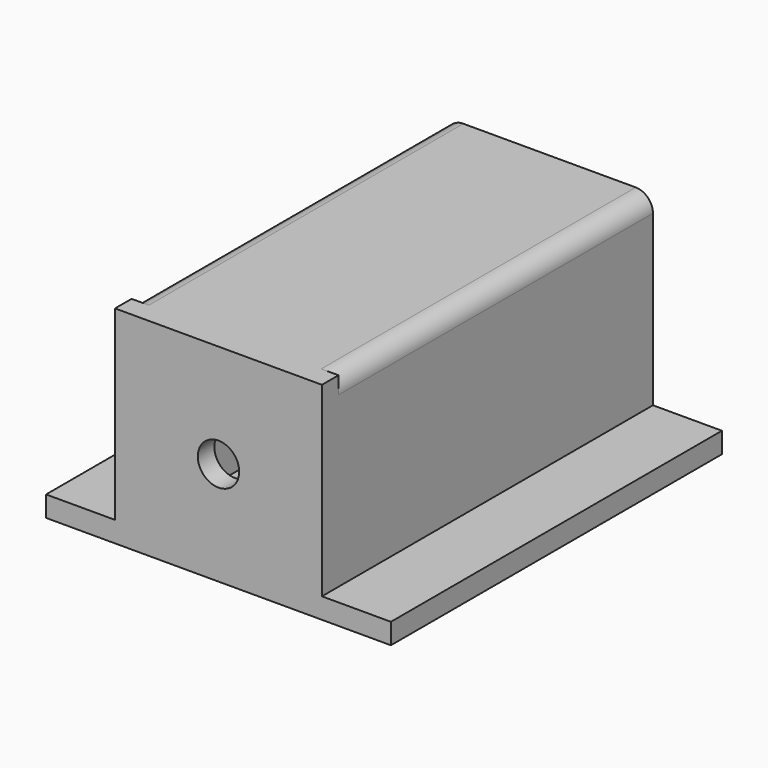
from build123d import *

# Parameters (mm, degrees)
F0_W     = 54
F0_H     = 54
F1_DEPTH = 120
F2_W     = 60
F2_H     = 60
F2_R     = 6
F3_DEPTH = 6
F4_W     = 20
F4_H     = 120
F5_DEPTH = 6


with BuildPart() as f1:
    # F0 (on Front) → F1 (new body)
    with BuildSketch(Plane.XZ):
        with BuildLine():
            ThreePointArc((30, 25), (28.5355339059, 28.5355339059), (25, 30))
            Line((25, 30), (-25, 30))
            ThreePointArc((-25, 30), (-28.5355339059, 28.5355339059), (-30, 25))
            Line((-30, 25), (-30, -25))
            ThreePointArc((-30, -25), (-28.5355339059, -28.5355339059), (-25, -30))
            Line((-25, -30), (25, -30))
            ThreePointArc((25, -30), (28.5355339059, -28.5355339059), (30, -25))
            Line((30, -25), (30, 25))
        make_face()
        Rectangle(F0_W, F0_H, mode=Mode.SUBTRACT)
    extrude(amount=F1_DEPTH)

    # F2 (on face) → F3 (join)
    with BuildSketch(Plane.XZ.offset(120)):
        Rectangle(F2_W, F2_H)
        Circle(F2_R, mode=Mode.SUBTRACT)
    extrude(amount=-F3_DEPTH)

    # F4 (on face) → F5 (join)
    with BuildSketch(Plane(origin=(0, 0, -30), x_dir=(1, 0, 0), z_dir=(0, 0, -1))):
        with Locations((40, 60)):
            Rectangle(F4_W, F4_H)
        with Locations((-40, 60)):
            Rectangle(F4_W, F4_H)
    extrude(amount=-F5_DEPTH)


solid = f1.part
